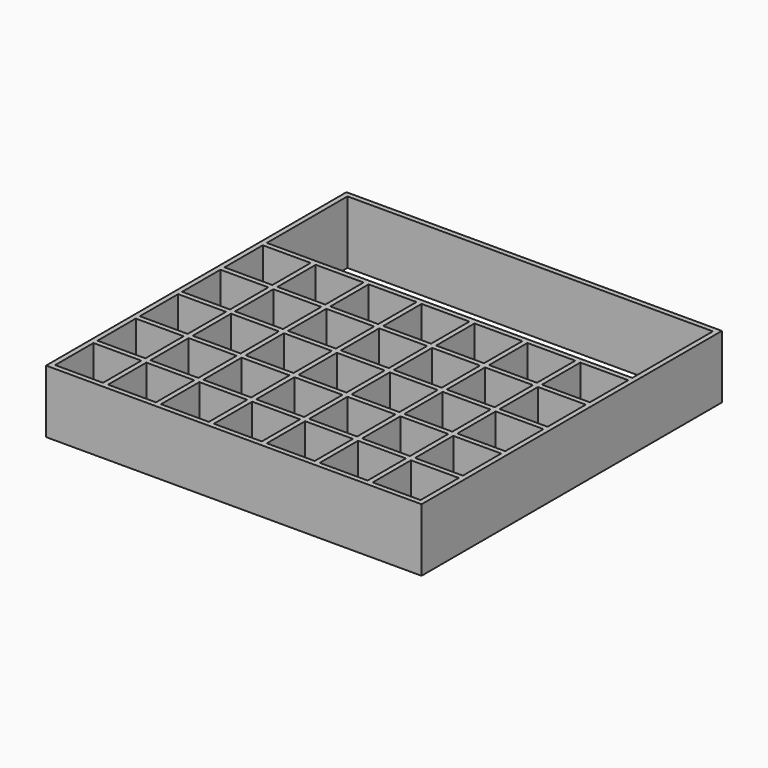
from build123d import *

# Parameters (mm, degrees)
F0_W     = 7.6
F0_H     = 7.6
F1_DEPTH = 10


with BuildPart() as f1:
    # F0 (on Top) → F1 (new body)
    with BuildSketch(Plane.XY):
        Polygon((29.8, 29.8), (0, 29.8), (-29.8, 29.8), (-29.8, 0), (-29.8, -29.8), (0, -29.8), (29.8, -29.8), (29.8, 0), align=None)
        with Locations((-25.2, -25.2)):
            Rectangle(F0_W, F0_H, mode=Mode.SUBTRACT)
        with Locations((-16.8, -25.2)):
            Rectangle(F0_W, F0_H, mode=Mode.SUBTRACT)
        with Locations((-25.2, -16.8)):
            Rectangle(F0_W, F0_H, mode=Mode.SUBTRACT)
        with Locations((-16.8, -16.8)):
            Rectangle(F0_W, F0_H, mode=Mode.SUBTRACT)
        with Locations((-8.4, -25.2)):
            Rectangle(F0_W, F0_H, mode=Mode.SUBTRACT)
        with Locations((-8.4, -16.8)):
            Rectangle(F0_W, F0_H, mode=Mode.SUBTRACT)
        with Locations((-25.2, -8.4)):
            Rectangle(F0_W, F0_H, mode=Mode.SUBTRACT)
        with Locations((-16.8, -8.4)):
            Rectangle(F0_W, F0_H, mode=Mode.SUBTRACT)
        with Locations((-8.4, -8.4)):
            Rectangle(F0_W, F0_H, mode=Mode.SUBTRACT)
        Polygon((0, -29), (-3.8, -29), (-3.8, -21.4), (0, -21.4), (3.8, -21.4), (3.8, -29), align=None, mode=Mode.SUBTRACT)
        with Locations((8.4, -25.2)):
            Rectangle(F0_W, F0_H, mode=Mode.SUBTRACT)
        Polygon((0, -20.6), (-3.8, -20.6), (-3.8, -13), (0, -13), (3.8, -13), (3.8, -20.6), align=None, mode=Mode.SUBTRACT)
        with Locations((8.4, -16.8)):
            Rectangle(F0_W, F0_H, mode=Mode.SUBTRACT)
        with Locations((16.8, -25.2)):
            Rectangle(F0_W, F0_H, mode=Mode.SUBTRACT)
        with Locations((25.2, -25.2)):
            Rectangle(F0_W, F0_H, mode=Mode.SUBTRACT)
        with Locations((16.8, -16.8)):
            Rectangle(F0_W, F0_H, mode=Mode.SUBTRACT)
        with Locations((25.2, -16.8)):
            Rectangle(F0_W, F0_H, mode=Mode.SUBTRACT)
        Polygon((0, -12.2), (-3.8, -12.2), (-3.8, -4.6), (0, -4.6), (3.8, -4.6), (3.8, -12.2), align=None, mode=Mode.SUBTRACT)
        with Locations((8.4, -8.4)):
            Rectangle(F0_W, F0_H, mode=Mode.SUBTRACT)
        with Locations((16.8, -8.4)):
            Rectangle(F0_W, F0_H, mode=Mode.SUBTRACT)
        with Locations((25.2, -8.4)):
            Rectangle(F0_W, F0_H, mode=Mode.SUBTRACT)
        with Locations((-25.2, 0)):
            Rectangle(F0_W, F0_H, mode=Mode.SUBTRACT)
        with Locations((-16.8, 0)):
            Rectangle(F0_W, F0_H, mode=Mode.SUBTRACT)
        with Locations((-25.2, 8.4)):
            Rectangle(F0_W, F0_H, mode=Mode.SUBTRACT)
        with Locations((-16.8, 8.4)):
            Rectangle(F0_W, F0_H, mode=Mode.SUBTRACT)
        with Locations((-8.4, 0)):
            Rectangle(F0_W, F0_H, mode=Mode.SUBTRACT)
        with Locations((-8.4, 8.4)):
            Rectangle(F0_W, F0_H, mode=Mode.SUBTRACT)
        Polygon((0, -3.8), (-3.8, -3.8), (-3.8, 3.8), (0, 3.8), (3.8, 3.8), (3.8, -3.8), align=None, mode=Mode.SUBTRACT)
        with Locations((8.4, 0)):
            Rectangle(F0_W, F0_H, mode=Mode.SUBTRACT)
        Polygon((-3.8, 4.6), (-3.8, 12.2), (0, 12.2), (3.8, 12.2), (3.8, 4.6), (0, 4.6), align=None, mode=Mode.SUBTRACT)
        with Locations((8.4, 8.4)):
            Rectangle(F0_W, F0_H, mode=Mode.SUBTRACT)
        with Locations((16.8, 0)):
            Rectangle(F0_W, F0_H, mode=Mode.SUBTRACT)
        with Locations((25.2, 0)):
            Rectangle(F0_W, F0_H, mode=Mode.SUBTRACT)
        with Locations((16.8, 8.4)):
            Rectangle(F0_W, F0_H, mode=Mode.SUBTRACT)
        with Locations((25.2, 8.4)):
            Rectangle(F0_W, F0_H, mode=Mode.SUBTRACT)
        Polygon((0, 13), (-29, 13), (-29, 29), (0, 29), (29, 29), (29, 13), align=None, mode=Mode.SUBTRACT)
    extrude(amount=F1_DEPTH)


solid = f1.part
